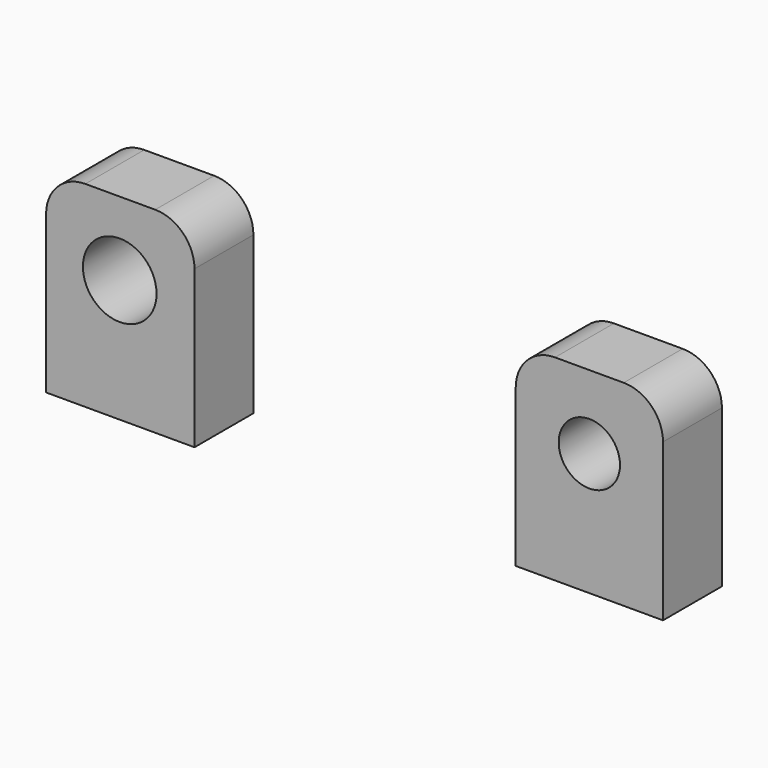
from build123d import *

# Parameters (mm, degrees)
F0_W      = 19.195897
F0_H      = 25.4
F0_R      = 4.7625
F0_W_2    = 19.05
F0_R_2    = 3.9624
F1_DEPTH  = 9.525
F1_FACE_W = 19.195897
F1_FACE_H = 25.4
F1_FACE_R = 4.7625
F2_DEPTH  = 9.525
F3_R      = 5.08
F4_R      = 5.08


with BuildPart() as f1:
    # F0 (on Front) → F1 (new body)
    with BuildSketch(Plane.XZ):
        with Locations((9.597948, -12.7)):
            Rectangle(F0_W, F0_H)
        with Locations((9.525, -9.525)):
            Circle(F0_R, mode=Mode.SUBTRACT)
        with Locations((70.268682, -12.7)):
            Rectangle(F0_W_2, F0_H)
        with Locations((70.268682, -9.525)):
            Circle(F0_R_2, mode=Mode.SUBTRACT)
    extrude(amount=F1_DEPTH)

    # F1_face (on face) → F2 (join)
    with BuildSketch(Plane(origin=(9.610434, 0, -13.243421), x_dir=(1, 0, 0), z_dir=(0, 1, 0))):
        with Locations((-0.012486, -0.543421)):
            Rectangle(F1_FACE_W, F1_FACE_H)
        with Locations((-0.085434, -3.718421)):
            Circle(F1_FACE_R, mode=Mode.SUBTRACT)
    extrude(amount=-F2_DEPTH)

    # F3
    f3_edges = [f1.edges().sort_by_distance(p)[0] for p in [
        (60.743682, -4.7625, 0),
        (79.793682, -4.7625, 0),
    ]]
    fillet(f3_edges, radius=F3_R)

    # F4
    f4_edges = [f1.edges().sort_by_distance(p)[0] for p in [
        (19.195897, -4.7625, 0),
        (0, -4.7625, 0),
    ]]
    fillet(f4_edges, radius=F4_R)


solid = f1.part
